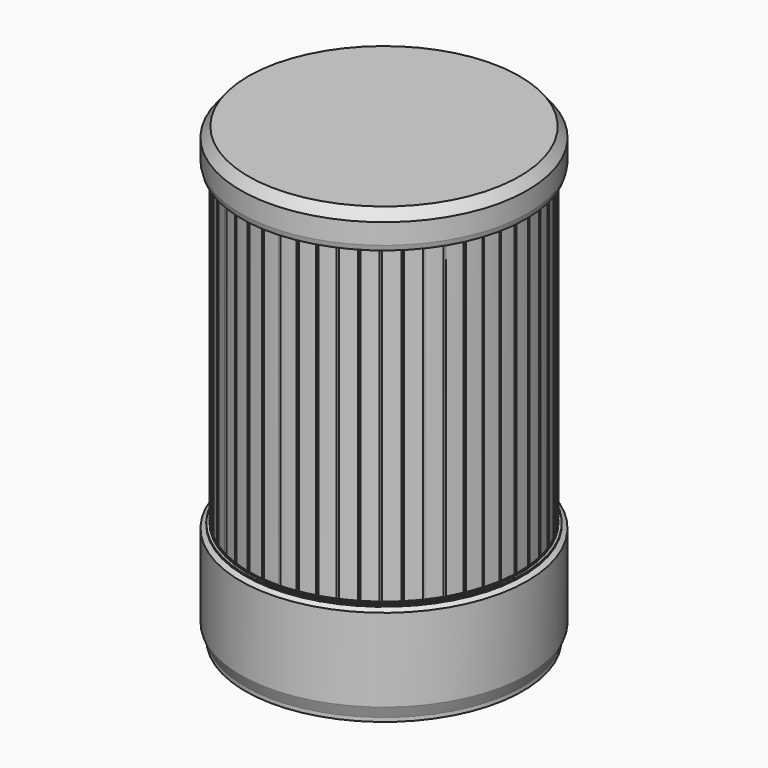
from build123d import *

# Parameters (mm, degrees)
F3_DEPTH = 97
F4_SIZE  = 1


with BuildPart() as f1:
    # F0 (on Front) → F1 (revolve)
    with BuildSketch(Plane.XZ):
        Polygon((0, -2), (0, 0), (-28.3, 0), (-28.3, 9.8), (-33.3, 14.8), (-36, 14.8), (-36, 21), (-39, 24.981719), (-39, 130), (-42, 130), (-42, 124), (-41.4, 122), (-42, 122), (-42, 24.981719), (-39, 21), (-39, 14.8), (-36, -2), (-28.3, -2), align=None)
    revolve(axis=Axis((0, 0, -1), (0, 0, -1)))

    # F2 (on face) → F3 (join)
    with BuildSketch(Plane.XY.offset(122)):
        with BuildLine():
            ThreePointArc((21.5558, -36.218189), (21.545517, -36.141676), (21.515398, -36.070593))
            ThreePointArc((21.515398, -36.070593), (21.266, -36.218189), (21.015591, -36.364061))
            ThreePointArc((21.015591, -36.364061), (21.341549, -36.497968), (21.5558, -36.218189))
        make_face()
        with BuildLine():
            ThreePointArc((21.015591, -36.364061), (21.266, -36.218189), (21.515398, -36.070593))
            ThreePointArc((21.515398, -36.070593), (21.119265, -35.968284), (21.015591, -36.364061))
        make_face()
        with BuildLine():
            ThreePointArc((25.407502, -33.443368), (25.637654, -33.267261), (25.866586, -33.089571))
            ThreePointArc((25.866586, -33.089571), (25.460755, -33.037718), (25.407502, -33.443368))
        make_face()
        with BuildLine():
            ThreePointArc((25.927454, -33.267261), (25.911815, -33.173348), (25.866586, -33.089571))
            ThreePointArc((25.866586, -33.089571), (25.637654, -33.267261), (25.407502, -33.443368))
            ThreePointArc((25.407502, -33.443368), (25.730621, -33.541744), (25.927454, -33.267261))
        make_face()
        with BuildLine():
            ThreePointArc((29.398722, -29.995252), (29.604987, -29.791689), (29.809844, -29.586707))
            ThreePointArc((29.809844, -29.586707), (29.400713, -29.586127), (29.398722, -29.995252))
        make_face()
        with BuildLine():
            ThreePointArc((29.894787, -29.791689), (29.87271, -29.680746), (29.809844, -29.586707))
            ThreePointArc((29.809844, -29.586707), (29.604987, -29.791689), (29.398722, -29.995252))
            ThreePointArc((29.398722, -29.995252), (29.715005, -30.059793), (29.894787, -29.791689))
        make_face()
        with BuildLine():
            ThreePointArc((32.926306, -26.074094), (33.105432, -25.846284), (33.282982, -25.617243))
            ThreePointArc((33.282982, -25.617243), (32.877005, -25.667945), (32.926306, -26.074094))
        make_face()
        with BuildLine():
            ThreePointArc((33.395231, -25.846284), (33.36566, -25.71875), (33.282982, -25.617243))
            ThreePointArc((33.282982, -25.617243), (33.105432, -25.846284), (32.926306, -26.074094))
            ThreePointArc((32.926306, -26.074094), (33.232067, -26.10695), (33.395231, -25.846284))
        make_face()
        with BuildLine():
            ThreePointArc((35.934623, -21.741732), (36.083784, -21.493267), (36.231227, -21.24378))
            ThreePointArc((36.231227, -21.24378), (35.834806, -21.344964), (35.934623, -21.741732))
        make_face()
        with BuildLine():
            ThreePointArc((35.934623, -21.741732), (36.226537, -21.745468), (36.373583, -21.493267))
            ThreePointArc((36.373583, -21.493267), (36.335491, -21.349645), (36.231227, -21.24378))
            ThreePointArc((36.231227, -21.24378), (36.083784, -21.493267), (35.934623, -21.741732))
        make_face()
        with BuildLine():
            ThreePointArc((38.608085, -16.535289), (38.227472, -16.68536), (38.376229, -17.066489))
            ThreePointArc((38.376229, -17.066489), (38.493073, -16.801289), (38.608085, -16.535289))
        make_face()
        with BuildLine():
            ThreePointArc((38.608085, -16.535289), (38.493073, -16.801289), (38.376229, -17.066489))
            ThreePointArc((38.376229, -17.066489), (38.65138, -17.044029), (38.782873, -16.801289))
            ThreePointArc((38.782873, -16.801289), (38.735265, -16.642145), (38.608085, -16.535289))
        make_face()
        with BuildLine():
            ThreePointArc((40.37607, -11.566027), (40.295304, -11.844345), (40.212619, -12.122098))
            ThreePointArc((40.212619, -12.122098), (40.46854, -12.076665), (40.585103, -11.844345))
            ThreePointArc((40.585103, -11.844345), (40.527025, -11.670308), (40.37607, -11.566027))
        make_face()
        with BuildLine():
            ThreePointArc((40.37607, -11.566027), (40.017267, -11.762619), (40.212619, -12.122098))
            ThreePointArc((40.212619, -12.122098), (40.295304, -11.844345), (40.37607, -11.566027))
        make_face()
        with BuildLine():
            ThreePointArc((41.5073, -6.414362), (41.462053, -6.700608), (41.414832, -6.986534))
            ThreePointArc((41.414832, -6.986534), (41.649535, -6.921592), (41.751853, -6.700608))
            ThreePointArc((41.751853, -6.700608), (41.682389, -6.512364), (41.5073, -6.414362))
        make_face()
        with BuildLine():
            ThreePointArc((41.5073, -6.414362), (41.175966, -6.654374), (41.414832, -6.986534))
            ThreePointArc((41.414832, -6.986534), (41.462053, -6.700608), (41.5073, -6.414362))
        make_face()
        with BuildLine():
            ThreePointArc((41.983935, -1.161539), (41.685295, -1.441185), (41.963909, -1.740788))
            ThreePointArc((41.963909, -1.740788), (41.974921, -1.451198), (41.983935, -1.161539))
        make_face()
        with BuildLine():
            ThreePointArc((41.798459, 4.109602), (41.537222, 3.794732), (41.85119, 3.532411))
            ThreePointArc((41.85119, 3.532411), (41.82582, 3.821098), (41.798459, 4.109602))
        make_face()
        with BuildLine():
            ThreePointArc((34.648453, 23.737833), (34.811418, 23.498196), (34.972725, 23.25744))
            ThreePointArc((34.972725, 23.25744), (35.067084, 23.361746), (35.101217, 23.498196))
            ThreePointArc((35.101217, 23.498196), (34.946984, 23.754331), (34.648453, 23.737833))
        make_face()
        with BuildLine():
            ThreePointArc((37.350379, 19.208051), (37.482024, 18.949878), (37.611885, 18.690803))
            ThreePointArc((37.611885, 18.690803), (37.728618, 18.797645), (37.771823, 18.949878))
            ThreePointArc((37.771823, 18.949878), (37.633406, 19.196996), (37.350379, 19.208051))
        make_face()
        with BuildLine():
            ThreePointArc((39.463267, 14.375346), (39.288543, 14.005401), (39.657883, 13.829401))
            ThreePointArc((39.657883, 13.829401), (39.561517, 14.102709), (39.463267, 14.375346))
        make_face()
        with BuildLine():
            ThreePointArc((40.953796, 9.315933), (40.734083, 8.970804), (41.078452, 8.749902))
            ThreePointArc((41.078452, 8.749902), (41.0171, 9.033132), (40.953796, 9.315933))
        make_face()
        with BuildLine():
            ThreePointArc((39.463267, 14.375346), (39.561517, 14.102709), (39.657883, 13.829401))
            ThreePointArc((39.657883, 13.829401), (39.798065, 13.935292), (39.851316, 14.102709))
            ThreePointArc((39.851316, 14.102709), (39.728116, 14.339834), (39.463267, 14.375346))
        make_face()
        with BuildLine():
            ThreePointArc((37.350379, 19.208051), (37.223399, 18.819124), (37.611885, 18.690803))
            ThreePointArc((37.611885, 18.690803), (37.482024, 18.949878), (37.350379, 19.208051))
        make_face()
        with BuildLine():
            ThreePointArc((40.953796, 9.315933), (41.0171, 9.033132), (41.078452, 8.749902))
            ThreePointArc((41.078452, 8.749902), (41.24267, 8.851193), (41.3069, 9.033132))
            ThreePointArc((41.3069, 9.033132), (41.198261, 9.259328), (40.953796, 9.315933))
        make_face()
        with BuildLine():
            ThreePointArc((41.798459, 4.109602), (41.82582, 3.821098), (41.85119, 3.532411))
            ThreePointArc((41.85119, 3.532411), (42.03952, 3.625354), (42.115619, 3.821098))
            ThreePointArc((42.115619, 3.821098), (42.020826, 4.035472), (41.798459, 4.109602))
        make_face()
        with BuildLine():
            ThreePointArc((41.983935, -1.161539), (41.974921, -1.451198), (41.963909, -1.740788))
            ThreePointArc((41.963909, -1.740788), (42.175909, -1.659974), (42.264721, -1.451198))
            ThreePointArc((42.264721, -1.451198), (42.183003, -1.249491), (41.983935, -1.161539))
        make_face()
        with BuildLine():
            ThreePointArc((34.648453, 23.737833), (34.571219, 23.336059), (34.972725, 23.25744))
            ThreePointArc((34.972725, 23.25744), (34.811418, 23.498196), (34.648453, 23.737833))
        make_face()
        with BuildLine():
            ThreePointArc((27.656549, 31.608785), (27.873989, 31.417204), (28.090103, 31.224127))
            ThreePointArc((28.090103, 31.224127), (28.144741, 31.313874), (28.163789, 31.417204))
            ThreePointArc((28.163789, 31.417204), (27.976384, 31.688311), (27.656549, 31.608785))
        make_face()
        with BuildLine():
            ThreePointArc((27.656549, 31.608785), (27.681659, 31.200426), (28.090103, 31.224127))
            ThreePointArc((28.090103, 31.224127), (27.873989, 31.417204), (27.656549, 31.608785))
        make_face()
        with BuildLine():
            ThreePointArc((31.4001, 27.893256), (31.373831, 27.48497), (31.782025, 27.457293))
            ThreePointArc((31.782025, 27.457293), (31.591814, 27.675933), (31.4001, 27.893256))
        make_face()
        with BuildLine():
            ThreePointArc((31.4001, 27.893256), (31.591814, 27.675933), (31.782025, 27.457293))
            ThreePointArc((31.782025, 27.457293), (31.855544, 27.555806), (31.881614, 27.675933))
            ThreePointArc((31.881614, 27.675933), (31.71103, 27.940075), (31.4001, 27.893256))
        make_face()
        with BuildLine():
            ThreePointArc((23.476837, 34.825825), (23.552931, 34.423833), (23.955183, 34.498539))
            ThreePointArc((23.955183, 34.498539), (23.716575, 34.663007), (23.476837, 34.825825))
        make_face()
        with BuildLine():
            ThreePointArc((23.476837, 34.825825), (23.716575, 34.663007), (23.955183, 34.498539))
            ThreePointArc((23.955183, 34.498539), (23.99328, 34.576882), (24.006374, 34.663007))
            ThreePointArc((24.006374, 34.663007), (23.801745, 34.940009), (23.476837, 34.825825))
        make_face()
        with BuildLine():
            ThreePointArc((18.926882, 37.493641), (19.052758, 37.104356), (19.442476, 37.228889))
            ThreePointArc((19.442476, 37.228889), (19.185136, 37.362154), (18.926882, 37.493641))
        make_face()
        with BuildLine():
            ThreePointArc((18.926882, 37.493641), (19.185136, 37.362154), (19.442476, 37.228889))
            ThreePointArc((19.442476, 37.228889), (19.466703, 37.293573), (19.474935, 37.362154))
            ThreePointArc((19.474935, 37.362154), (19.252745, 37.643957), (18.926882, 37.493641))
        make_face()
        with BuildLine():
            ThreePointArc((14.078439, 39.57016), (14.252113, 39.199721), (14.623149, 39.372116))
            ThreePointArc((14.623149, 39.372116), (14.351135, 39.472078), (14.078439, 39.57016))
        make_face()
        with BuildLine():
            ThreePointArc((14.078439, 39.57016), (14.351135, 39.472078), (14.623149, 39.372116))
            ThreePointArc((14.623149, 39.372116), (14.636454, 39.421312), (14.640935, 39.472078))
            ThreePointArc((14.640935, 39.472078), (14.400917, 39.757569), (14.078439, 39.57016))
        make_face()
        with BuildLine():
            ThreePointArc((9.00797, 41.022634), (9.226703, 40.676883), (9.573206, 40.894422))
            ThreePointArc((9.573206, 40.894422), (9.290809, 40.959503), (9.00797, 41.022634))
        make_face()
        with BuildLine():
            ThreePointArc((9.00797, 41.022634), (9.290809, 40.959503), (9.573206, 40.894422))
            ThreePointArc((9.573206, 40.894422), (9.578752, 40.926752), (9.580609, 40.959503))
            ThreePointArc((9.580609, 40.959503), (9.322566, 41.247557), (9.00797, 41.022634))
        make_face()
        with BuildLine():
            ThreePointArc((-0.897493, 41.983215), (-0.897516, 41.986812), (-0.897583, 41.990408))
            ThreePointArc((-0.897583, 41.990408), (-1.187293, 41.983215), (-1.476946, 41.974023))
            ThreePointArc((-1.476946, 41.974023), (-1.182696, 41.693452), (-0.897493, 41.983215))
        make_face()
        with BuildLine():
            ThreePointArc((-1.476946, 41.974023), (-1.187293, 41.983215), (-0.897583, 41.990408))
            ThreePointArc((-0.897583, 41.990408), (-1.195485, 42.272898), (-1.476946, 41.974023))
        make_face()
        with BuildLine():
            ThreePointArc((3.79544, 41.828156), (4.055782, 41.512546), (4.372289, 41.771798))
            ThreePointArc((4.372289, 41.771798), (4.083962, 41.800972), (3.79544, 41.828156))
        make_face()
        with BuildLine():
            ThreePointArc((3.79544, 41.828156), (4.083962, 41.800972), (4.372289, 41.771798))
            ThreePointArc((4.372289, 41.771798), (4.373393, 41.786366), (4.373761, 41.800972))
            ThreePointArc((4.373761, 41.800972), (4.097569, 42.090452), (3.79544, 41.828156))
        make_face()
        with BuildLine():
            ThreePointArc((-16.26917, 38.597934), (-16.274999, 38.655766), (-16.292251, 38.711272))
            ThreePointArc((-16.292251, 38.711272), (-16.558969, 38.597934), (-16.824898, 38.48276))
            ThreePointArc((-16.824898, 38.48276), (-16.500158, 38.314165), (-16.26917, 38.597934))
        make_face()
        with BuildLine():
            ThreePointArc((-16.824898, 38.48276), (-16.558969, 38.597934), (-16.292251, 38.711272))
            ThreePointArc((-16.292251, 38.711272), (-16.673226, 38.86426), (-16.824898, 38.48276))
        make_face()
        with BuildLine():
            ThreePointArc((-11.300993, 40.368967), (-11.303751, 40.408854), (-11.311973, 40.447982))
            ThreePointArc((-11.311973, 40.447982), (-11.590793, 40.368967), (-11.86906, 40.288031))
            ThreePointArc((-11.86906, 40.288031), (-11.549916, 40.082065), (-11.300993, 40.368967))
        make_face()
        with BuildLine():
            ThreePointArc((-11.86906, 40.288031), (-11.590793, 40.368967), (-11.311973, 40.447982))
            ThreePointArc((-11.311973, 40.447982), (-11.670769, 40.647513), (-11.86906, 40.288031))
        make_face()
        with BuildLine():
            ThreePointArc((-6.150023, 41.503358), (-6.150843, 41.525142), (-6.153298, 41.546804))
            ThreePointArc((-6.153298, 41.546804), (-6.439823, 41.503358), (-6.72604, 41.457935))
            ThreePointArc((-6.72604, 41.457935), (-6.417041, 41.214455), (-6.150023, 41.503358))
        make_face()
        with BuildLine():
            ThreePointArc((-6.72604, 41.457935), (-6.439823, 41.503358), (-6.153298, 41.546804))
            ThreePointArc((-6.153298, 41.546804), (-6.484257, 41.78973), (-6.72604, 41.457935))
        make_face()
        with BuildLine():
            ThreePointArc((-29.315188, 29.791689), (-29.336884, 29.901707), (-29.398722, 29.995252))
            ThreePointArc((-29.398722, 29.995252), (-29.604987, 29.791689), (-29.809844, 29.586707))
            ThreePointArc((-29.809844, 29.586707), (-29.494045, 29.523966), (-29.315188, 29.791689))
        make_face()
        with BuildLine():
            ThreePointArc((-29.809844, 29.586707), (-29.604987, 29.791689), (-29.398722, 29.995252))
            ThreePointArc((-29.398722, 29.995252), (-29.809261, 29.997251), (-29.809844, 29.586707))
        make_face()
        with BuildLine():
            ThreePointArc((-25.347855, 33.267261), (-25.363172, 33.360228), (-25.407502, 33.443368))
            ThreePointArc((-25.407502, 33.443368), (-25.637654, 33.267261), (-25.866586, 33.089571))
            ThreePointArc((-25.866586, 33.089571), (-25.543741, 32.993101), (-25.347855, 33.267261))
        make_face()
        with BuildLine():
            ThreePointArc((-25.866586, 33.089571), (-25.637654, 33.267261), (-25.407502, 33.443368))
            ThreePointArc((-25.407502, 33.443368), (-25.814554, 33.496805), (-25.866586, 33.089571))
        make_face()
        with BuildLine():
            ThreePointArc((-20.976201, 36.218189), (-20.986222, 36.293737), (-21.015591, 36.364061))
            ThreePointArc((-21.015591, 36.364061), (-21.266, 36.218189), (-21.515398, 36.070593))
            ThreePointArc((-21.515398, 36.070593), (-21.189487, 35.938673), (-20.976201, 36.218189))
        make_face()
        with BuildLine():
            ThreePointArc((-21.515398, 36.070593), (-21.266, 36.218189), (-21.015591, 36.364061))
            ThreePointArc((-21.015591, 36.364061), (-21.412736, 36.468094), (-21.515398, 36.070593))
        make_face()
        with BuildLine():
            ThreePointArc((-33.282982, 25.617243), (-33.105432, 25.846284), (-32.926306, 26.074094))
            ThreePointArc((-32.926306, 26.074094), (-33.333859, 26.024623), (-33.282982, 25.617243))
        make_face()
        with BuildLine():
            ThreePointArc((-32.815633, 25.846284), (-32.844765, 25.972919), (-32.926306, 26.074094))
            ThreePointArc((-32.926306, 26.074094), (-33.105432, 25.846284), (-33.282982, 25.617243))
            ThreePointArc((-33.282982, 25.617243), (-32.977898, 25.586055), (-32.815633, 25.846284))
        make_face()
        with BuildLine():
            ThreePointArc((-35.934623, 21.741732), (-36.083784, 21.493267), (-36.231227, 21.24378))
            ThreePointArc((-36.231227, 21.24378), (-35.940162, 21.24156), (-35.793985, 21.493267))
            ThreePointArc((-35.793985, 21.493267), (-35.831583, 21.63602), (-35.934623, 21.741732))
        make_face()
        with BuildLine():
            ThreePointArc((-35.934623, 21.741732), (-36.332761, 21.64157), (-36.231227, 21.24378))
            ThreePointArc((-36.231227, 21.24378), (-36.083784, 21.493267), (-35.934623, 21.741732))
        make_face()
        with BuildLine():
            ThreePointArc((-38.376229, 17.066489), (-38.758675, 16.917218), (-38.608085, 16.535289))
            ThreePointArc((-38.608085, 16.535289), (-38.493073, 16.801289), (-38.376229, 17.066489))
        make_face()
        with BuildLine():
            ThreePointArc((-38.376229, 17.066489), (-38.493073, 16.801289), (-38.608085, 16.535289))
            ThreePointArc((-38.608085, 16.535289), (-38.33393, 16.559097), (-38.203274, 16.801289))
            ThreePointArc((-38.203274, 16.801289), (-38.250334, 16.959596), (-38.376229, 17.066489))
        make_face()
        with BuildLine():
            ThreePointArc((-40.212619, 12.122098), (-40.295304, 11.844345), (-40.37607, 11.566027))
            ThreePointArc((-40.37607, 11.566027), (-40.121267, 11.612623), (-40.005504, 11.844345))
            ThreePointArc((-40.005504, 11.844345), (-40.062983, 12.017581), (-40.212619, 12.122098))
        make_face()
        with BuildLine():
            ThreePointArc((-40.212619, 12.122098), (-40.573341, 11.92607), (-40.37607, 11.566027))
            ThreePointArc((-40.37607, 11.566027), (-40.295304, 11.844345), (-40.212619, 12.122098))
        make_face()
        with BuildLine():
            ThreePointArc((-41.414832, 6.986534), (-41.462053, 6.700608), (-41.5073, 6.414362))
            ThreePointArc((-41.5073, 6.414362), (-41.27381, 6.480271), (-41.172254, 6.700608))
            ThreePointArc((-41.172254, 6.700608), (-41.241069, 6.88809), (-41.414832, 6.986534))
        make_face()
        with BuildLine():
            ThreePointArc((-41.414832, 6.986534), (-41.748141, 6.746842), (-41.5073, 6.414362))
            ThreePointArc((-41.5073, 6.414362), (-41.462053, 6.700608), (-41.414832, 6.986534))
        make_face()
        with BuildLine():
            ThreePointArc((-41.963909, 1.740788), (-42.264548, 1.461211), (-41.983935, 1.161539))
            ThreePointArc((-41.983935, 1.161539), (-41.974921, 1.451198), (-41.963909, 1.740788))
        make_face()
        with BuildLine():
            ThreePointArc((-41.963909, 1.740788), (-41.974921, 1.451198), (-41.983935, 1.161539))
            ThreePointArc((-41.983935, 1.161539), (-41.773214, 1.243117), (-41.685122, 1.451198))
            ThreePointArc((-41.685122, 1.451198), (-41.766145, 1.652186), (-41.963909, 1.740788))
        make_face()
        with BuildLine():
            ThreePointArc((-41.85119, -3.532411), (-42.114417, -3.847463), (-41.798459, -4.109602))
            ThreePointArc((-41.798459, -4.109602), (-41.82582, -3.821098), (-41.85119, -3.532411))
        make_face()
        with BuildLine():
            ThreePointArc((-41.85119, -3.532411), (-41.82582, -3.821098), (-41.798459, -4.109602))
            ThreePointArc((-41.798459, -4.109602), (-41.611445, -4.016103), (-41.536021, -3.821098))
            ThreePointArc((-41.536021, -3.821098), (-41.630076, -3.607397), (-41.85119, -3.532411))
        make_face()
        with BuildLine():
            ThreePointArc((-41.078452, -8.749902), (-41.300118, -9.095461), (-40.953796, -9.315933))
            ThreePointArc((-40.953796, -9.315933), (-41.0171, -9.033132), (-41.078452, -8.749902))
        make_face()
        with BuildLine():
            ThreePointArc((-41.078452, -8.749902), (-41.0171, -9.033132), (-40.953796, -9.315933))
            ThreePointArc((-40.953796, -9.315933), (-40.790904, -9.214293), (-40.727301, -9.033132))
            ThreePointArc((-40.727301, -9.033132), (-40.835161, -8.807563), (-41.078452, -8.749902))
        make_face()
        with BuildLine():
            ThreePointArc((-39.657883, -13.829401), (-39.83449, -14.200018), (-39.463267, -14.375346))
            ThreePointArc((-39.463267, -14.375346), (-39.561517, -14.102709), (-39.657883, -13.829401))
        make_face()
        with BuildLine():
            ThreePointArc((-39.657883, -13.829401), (-39.561517, -14.102709), (-39.463267, -14.375346))
            ThreePointArc((-39.463267, -14.375346), (-39.324392, -14.269309), (-39.271717, -14.102709))
            ThreePointArc((-39.271717, -14.102709), (-39.3941, -13.866161), (-39.657883, -13.829401))
        make_face()
        with BuildLine():
            ThreePointArc((-37.611885, -18.690803), (-37.740649, -19.080632), (-37.350379, -19.208051))
            ThreePointArc((-37.350379, -19.208051), (-37.482024, -18.949878), (-37.611885, -18.690803))
        make_face()
        with BuildLine():
            ThreePointArc((-37.611885, -18.690803), (-37.482024, -18.949878), (-37.350379, -19.208051))
            ThreePointArc((-37.350379, -19.208051), (-37.234906, -19.10126), (-37.192225, -18.949878))
            ThreePointArc((-37.192225, -18.949878), (-37.329791, -18.703284), (-37.611885, -18.690803))
        make_face()
        with BuildLine():
            ThreePointArc((-34.972725, -23.25744), (-34.811418, -23.498196), (-34.648453, -23.737833))
            ThreePointArc((-34.648453, -23.737833), (-34.555282, -23.633762), (-34.521618, -23.498196))
            ThreePointArc((-34.521618, -23.498196), (-34.674968, -23.24253), (-34.972725, -23.25744))
        make_face()
        with BuildLine():
            ThreePointArc((-34.972725, -23.25744), (-35.051616, -23.660333), (-34.648453, -23.737833))
            ThreePointArc((-34.648453, -23.737833), (-34.811418, -23.498196), (-34.972725, -23.25744))
        make_face()
        with BuildLine():
            ThreePointArc((16.848768, -38.597934), (16.842738, -38.539123), (16.824898, -38.48276))
            ThreePointArc((16.824898, -38.48276), (16.558969, -38.597934), (16.292251, -38.711272))
            ThreePointArc((16.292251, -38.711272), (16.616801, -38.881905), (16.848768, -38.597934))
        make_face()
        with BuildLine():
            ThreePointArc((16.292251, -38.711272), (16.558969, -38.597934), (16.824898, -38.48276))
            ThreePointArc((16.824898, -38.48276), (16.444712, -38.331609), (16.292251, -38.711272))
        make_face()
        with BuildLine():
            ThreePointArc((11.880592, -40.368967), (11.877694, -40.32809), (11.86906, -40.288031))
            ThreePointArc((11.86906, -40.288031), (11.590793, -40.368967), (11.311973, -40.447982))
            ThreePointArc((11.311973, -40.447982), (11.63068, -40.656009), (11.880592, -40.368967))
        make_face()
        with BuildLine():
            ThreePointArc((11.311973, -40.447982), (11.590793, -40.368967), (11.86906, -40.288031))
            ThreePointArc((11.86906, -40.288031), (11.510816, -40.090422), (11.311973, -40.447982))
        make_face()
        with BuildLine():
            ThreePointArc((-4.372289, -41.771798), (-4.083962, -41.800972), (-3.79544, -41.828156))
            ThreePointArc((-3.79544, -41.828156), (-3.794482, -41.814579), (-3.794162, -41.800972))
            ThreePointArc((-3.794162, -41.800972), (-4.069356, -41.511541), (-4.372289, -41.771798))
        make_face()
        with BuildLine():
            ThreePointArc((-4.372289, -41.771798), (-4.112141, -42.089398), (-3.79544, -41.828156))
            ThreePointArc((-3.79544, -41.828156), (-4.083962, -41.800972), (-4.372289, -41.771798))
        make_face()
        with BuildLine():
            ThreePointArc((0.897583, -41.990408), (1.187293, -41.983215), (1.476946, -41.974023))
            ThreePointArc((1.476946, -41.974023), (1.1791, -41.693531), (0.897583, -41.990408))
        make_face()
        with BuildLine():
            ThreePointArc((1.477092, -41.983215), (1.477055, -41.978619), (1.476946, -41.974023))
            ThreePointArc((1.476946, -41.974023), (1.187293, -41.983215), (0.897583, -41.990408))
            ThreePointArc((0.897583, -41.990408), (1.190889, -42.272992), (1.477092, -41.983215))
        make_face()
        with BuildLine():
            ThreePointArc((6.153298, -41.546804), (6.439823, -41.503358), (6.72604, -41.457935))
            ThreePointArc((6.72604, -41.457935), (6.395388, -41.216985), (6.153298, -41.546804))
        make_face()
        with BuildLine():
            ThreePointArc((6.729622, -41.503358), (6.728725, -41.480576), (6.72604, -41.457935))
            ThreePointArc((6.72604, -41.457935), (6.439823, -41.503358), (6.153298, -41.546804))
            ThreePointArc((6.153298, -41.546804), (6.461607, -41.792337), (6.729622, -41.503358))
        make_face()
        with BuildLine():
            ThreePointArc((-9.573206, -40.894422), (-9.354916, -41.242123), (-9.00797, -41.022634))
            ThreePointArc((-9.00797, -41.022634), (-9.290809, -40.959503), (-9.573206, -40.894422))
        make_face()
        with BuildLine():
            ThreePointArc((-9.573206, -40.894422), (-9.290809, -40.959503), (-9.00797, -41.022634))
            ThreePointArc((-9.00797, -41.022634), (-9.002755, -40.991259), (-9.00101, -40.959503))
            ThreePointArc((-9.00101, -40.959503), (-9.258059, -40.67156), (-9.573206, -40.894422))
        make_face()
        with BuildLine():
            ThreePointArc((-14.623149, -39.372116), (-14.450158, -39.744434), (-14.078439, -39.57016))
            ThreePointArc((-14.078439, -39.57016), (-14.351135, -39.472078), (-14.623149, -39.372116))
        make_face()
        with BuildLine():
            ThreePointArc((-14.623149, -39.372116), (-14.351135, -39.472078), (-14.078439, -39.57016))
            ThreePointArc((-14.078439, -39.57016), (-14.065644, -39.521859), (-14.061336, -39.472078))
            ThreePointArc((-14.061336, -39.472078), (-14.30037, -39.186759), (-14.623149, -39.372116))
        make_face()
        with BuildLine():
            ThreePointArc((-31.782025, -27.457293), (-31.809797, -27.866897), (-31.4001, -27.893256))
            ThreePointArc((-31.4001, -27.893256), (-31.591814, -27.675933), (-31.782025, -27.457293))
        make_face()
        with BuildLine():
            ThreePointArc((-31.782025, -27.457293), (-31.591814, -27.675933), (-31.4001, -27.893256))
            ThreePointArc((-31.4001, -27.893256), (-31.327672, -27.795149), (-31.302015, -27.675933))
            ThreePointArc((-31.302015, -27.675933), (-31.471688, -27.412204), (-31.782025, -27.457293))
        make_face()
        with BuildLine():
            ThreePointArc((-28.090103, -31.224127), (-28.066319, -31.633982), (-27.656549, -31.608785))
            ThreePointArc((-27.656549, -31.608785), (-27.873989, -31.417204), (-28.090103, -31.224127))
        make_face()
        with BuildLine():
            ThreePointArc((-28.090103, -31.224127), (-27.873989, -31.417204), (-27.656549, -31.608785))
            ThreePointArc((-27.656549, -31.608785), (-27.602882, -31.519599), (-27.58419, -31.417204))
            ThreePointArc((-27.58419, -31.417204), (-27.770659, -31.146452), (-28.090103, -31.224127))
        make_face()
        with BuildLine():
            ThreePointArc((-23.955183, -34.498539), (-23.716575, -34.663007), (-23.476837, -34.825825))
            ThreePointArc((-23.476837, -34.825825), (-23.439573, -34.748178), (-23.426775, -34.663007))
            ThreePointArc((-23.426775, -34.663007), (-23.630449, -34.386302), (-23.955183, -34.498539))
        make_face()
        with BuildLine():
            ThreePointArc((-23.955183, -34.498539), (-23.880219, -34.902182), (-23.476837, -34.825825))
            ThreePointArc((-23.476837, -34.825825), (-23.716575, -34.663007), (-23.955183, -34.498539))
        make_face()
        with BuildLine():
            ThreePointArc((-19.442476, -37.228889), (-19.185136, -37.362154), (-18.926882, -37.493641))
            ThreePointArc((-18.926882, -37.493641), (-18.903333, -37.429763), (-18.895336, -37.362154))
            ThreePointArc((-18.895336, -37.362154), (-19.116555, -37.080587), (-19.442476, -37.228889))
        make_face()
        with BuildLine():
            ThreePointArc((-19.442476, -37.228889), (-19.317513, -37.619953), (-18.926882, -37.493641))
            ThreePointArc((-18.926882, -37.493641), (-19.185136, -37.362154), (-19.442476, -37.228889))
        make_face()
    extrude(amount=-F3_DEPTH)

    # F4
    f4_edges = [f1.edges().sort_by_distance(p)[0] for p in [
        (42, 0, 130),
    ]]
    chamfer(f4_edges, length=F4_SIZE)


with BuildPart() as f6:
    # F5 (on Front) → F6 (revolve)
    with BuildSketch(Plane.XZ):
        Polygon((-43.049905, -7.369434), (0, -7.369434), (0, -2.093699), (-36.01237, -2.026882), (-39.009135, 14.801369), (-39.023317, 20.995326), (-41.777309, 24.627086), (-43.099176, 24.625385), align=None)
    revolve(axis=Axis((0, 0, -4.731566), (0, 0, 1)))


with BuildPart() as f8:
    # F7 (on Front) → F8 (revolve)
    with BuildSketch(Plane.XZ):
        Polygon((-42.947564, -6.432628), (0, -6.432628), (0, -2.006219), (-36.001943, -2.016308), (-39.008968, 14.801646), (-39.037324, 20.998951), (-42.011946, 24.817256), (-44.5, 23.210758), (-44.5, -2.52098), align=None)
    revolve(axis=Axis((0, 0, -4.219424), (0, 0, -1)))


with BuildPart() as f10:
    # F9 (on Front) → F10 (revolve)
    with BuildSketch(Plane.XZ):
        Polygon((0, 130.083561), (0, 133.01447), (-42.106546, 133.01447), (-44.512112, 129.973158), (-44.512112, 123.642273), (-44.104815, 122.023135), (-41.438323, 122.023135), (-42.046078, 123.989895), (-42.046078, 129.003912), (-41.054424, 130.083561), align=None)
    revolve(axis=Axis((0, 0, 131.549016), (0, 0, -1)))


solid = Compound([f1.part, f6.part, f8.part, f10.part])
